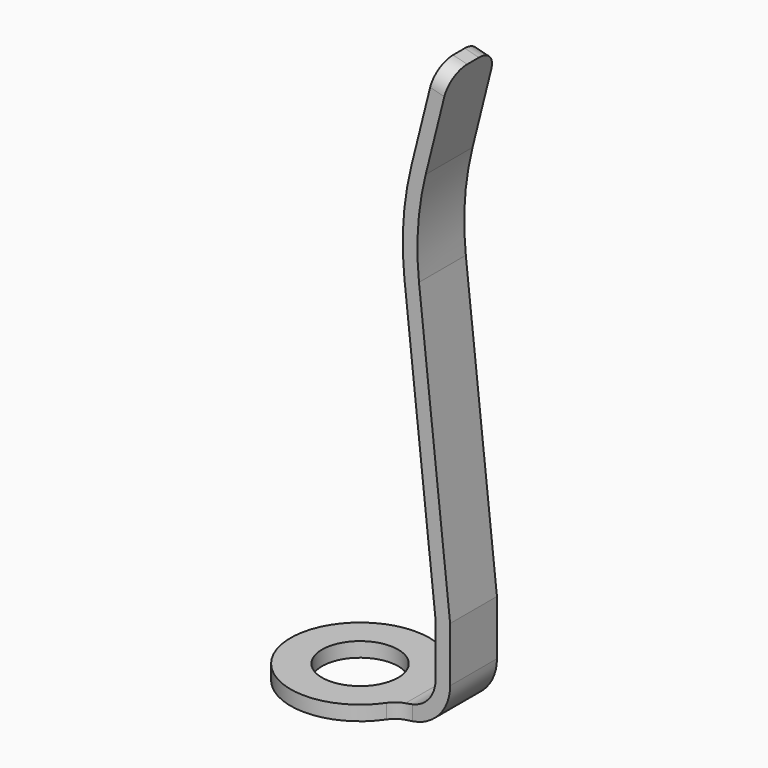
from build123d import *

# Parameters (mm, degrees)
F0_R     = 2.6
F1_DEPTH = 40
F3_DEPTH = 12.5
F4_R     = 1.5


with BuildPart() as f1:
    # F0 (on Top) → F1 (new body)
    with BuildSketch(Plane.XY):
        with BuildLine():
            Line((8.75, 2), (4.3084219849, 2))
            ThreePointArc((4.3084219849, 2), (-4.75, 0), (4.3084219849, -2))
            Line((4.3084219849, -2), (8.75, -2))
            Line((8.75, -2), (8.75, 2))
        make_face()
        Circle(F0_R, mode=Mode.SUBTRACT)
    extrude(amount=F1_DEPTH)

    # F2 (on Front) → F3 (cut, symmetric)
    with BuildSketch(Plane.XZ):
        with BuildLine():
            Line((10.2479401976, 42.5026379526), (7.7201425001, 39.757464375))
            Line((7.7201425001, 39.757464375), (6.082376492, 33.2064003424))
            ThreePointArc((6.082376492, 33.2064003424), (5.5603768051, 29.9093586064), (5.6234510612, 26.5718461314))
            Line((5.6234510612, 26.5718461314), (7.75, 6.7463273263))
            Line((7.75, 6.7463273263), (7.75, 3))
            ThreePointArc((7.75, 3), (6.8713203436, 0.8786796564), (4.75, 0))
            Line((4.75, 0), (-9.0971523896, 0))
            Line((-9.0971523896, 0), (-9.0971523896, -6.0571944341))
            Line((-9.0971523896, -6.0571944341), (12.3898674946, -5.0901651477))
            Line((12.3898674946, -5.0901651477), (10.2479401976, 42.5026379526))
        make_face()
        with BuildLine():
            Line((-9.0971523896, 1), (4.75, 1))
            ThreePointArc((4.75, 1), (6.1642135624, 1.5857864376), (6.75, 3))
            Line((6.75, 3), (6.75, 6.6928490996))
            Line((6.75, 6.6928490996), (4.629154591, 26.4651946927))
            ThreePointArc((4.629154591, 26.4651946927), (4.5627606372, 29.978365719), (5.1122339919, 33.4489359674))
            Line((5.1122339919, 33.4489359674), (6.75, 40))
            Line((6.75, 40), (-4.4842101634, 43.9101681113))
            Line((-4.4842101634, 43.9101681113), (-11.3513292745, 32.9360663891))
            Line((-11.3513292745, 32.9360663891), (-9.0971523896, 1))
        make_face()
        Polygon((5.6231939234, 43.9101681113), (6.75, 40), (7.7201425001, 39.757464375), (10.2479401976, 42.5026379526), align=None)
    extrude(amount=F3_DEPTH, both=True, mode=Mode.SUBTRACT)

    # F4 (call 1 of 4: OpenCascade refuses the feature's edges together)
    f4_edges = [f1.edges().sort_by_distance(p)[0] for p in [
        (7.235071, -2, 39.878732),
    ]]
    fillet(f4_edges, radius=F4_R)

    # F4#2 (call 2 of 4)
    f4_2_edges = [f1.edges().sort_by_distance(p)[0] for p in [
        (7.235071, 2, 39.878732),
    ]]
    fillet(f4_2_edges, radius=F4_R)

    # F4#3 (call 3 of 4)
    f4_3_edges = [f1.edges().sort_by_distance(p)[0] for p in [
        (4.308422, -2, 0.5),
    ]]
    fillet(f4_3_edges, radius=F4_R)

    # F4#4 (call 4 of 4)
    f4_4_edges = [f1.edges().sort_by_distance(p)[0] for p in [
        (4.308422, 2, 0.5),
    ]]
    fillet(f4_4_edges, radius=F4_R)


solid = f1.part
